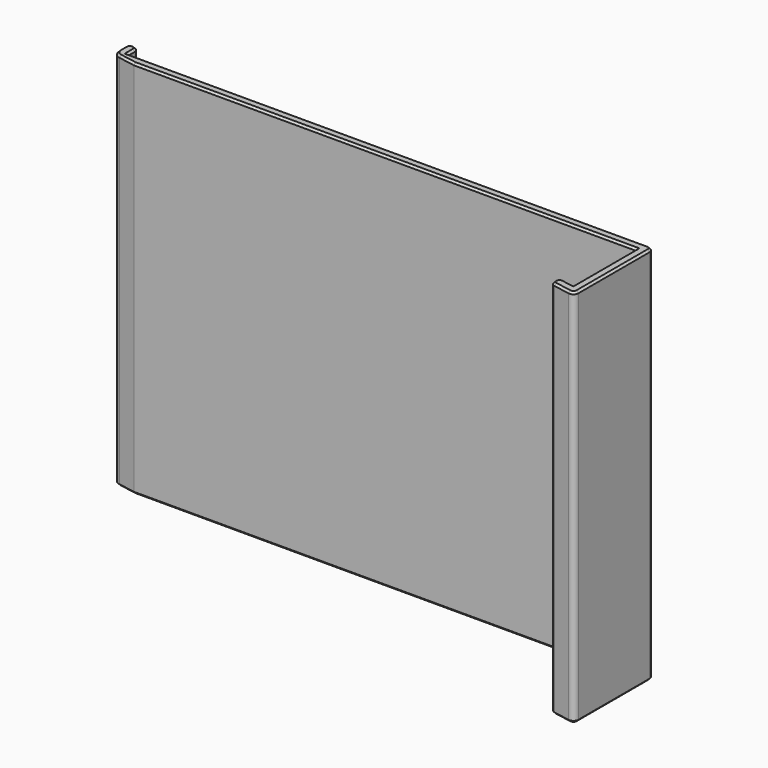
from build123d import *

# Parameters (mm, degrees)
F1_DEPTH = 115
F2_SIZE  = 0.6


with BuildPart() as f1:
    # F0 (on Top) → F1 (new body)
    with BuildSketch(Plane.XY):
        with BuildLine():
            ThreePointArc((-71.3577072051, 4), (-72.8577072051, 5.5), (-74.3577072051, 4))
            Line((-74.3577072051, 4), (-74.3577072051, 1.8545262431))
            ThreePointArc((-74.3577072051, 1.8545262431), (-73.7728183129, 0.2475572188), (-72.2918276492, -0.6074931395))
            Line((-72.2918276492, -0.6074931395), (-67.2301697172, -1.5))
            Line((-67.2301697172, -1.5), (84.9422927949, -1.5))
            Line((84.9422927949, -1.5), (84.9422927949, -25.238474772))
            Line((84.9422927949, -25.238474772), (81.7494018676, -24.675481955))
            ThreePointArc((81.7494018676, -24.675481955), (80.0117179716, -25.8922213181), (81.2284573346, -27.6299052141))
            Line((81.2284573346, -27.6299052141), (86.1818205284, -28.5033167904))
            ThreePointArc((86.1818205284, -28.5033167904), (87.4064742095, -28.1751718256), (87.9422927949, -27.0261051609))
            Line((87.9422927949, -27.0261051609), (87.9422927949, 0))
            ThreePointArc((87.9422927949, 0), (87.5029529667, 1.0606601718), (86.4422927949, 1.5))
            Line((86.4422927949, 1.5), (-71.3577072051, 1.5))
            Line((-71.3577072051, 1.5), (-71.3577072051, 4))
        make_face()
    extrude(amount=F1_DEPTH)

    # F2
    f2_edges = [f1.edges().sort_by_distance(p)[0] for p in [
        (-72.857707, 5.5, 115),
        (-74.357707, 2.927263, 115),
        (-73.772818, 0.247557, 115),
        (-69.760999, -1.053747, 115),
        (8.856062, -1.5, 115),
        (84.942293, -13.369237, 115),
        (83.345847, -24.956978, 115),
        (80.011718, -25.892221, 115),
        (83.705139, -28.066611, 115),
        (87.406474, -28.175172, 115),
        (87.942293, -13.513053, 115),
        (87.502953, 1.06066, 115),
        (7.542293, 1.5, 115),
        (-71.357707, 2.75, 115),
        (-72.857707, 5.5, 0),
        (-74.357707, 2.927263, 0),
        (-73.772818, 0.247557, 0),
        (-69.760999, -1.053747, 0),
        (8.856062, -1.5, 0),
        (84.942293, -13.369237, 0),
        (83.345847, -24.956978, 0),
        (80.011718, -25.892221, 0),
        (83.705139, -28.066611, 0),
        (87.406474, -28.175172, 0),
        (87.942293, -13.513053, 0),
        (87.502953, 1.06066, 0),
        (7.542293, 1.5, 0),
        (-71.357707, 2.75, 0),
    ]]
    chamfer(f2_edges, length=F2_SIZE)


solid = f1.part
